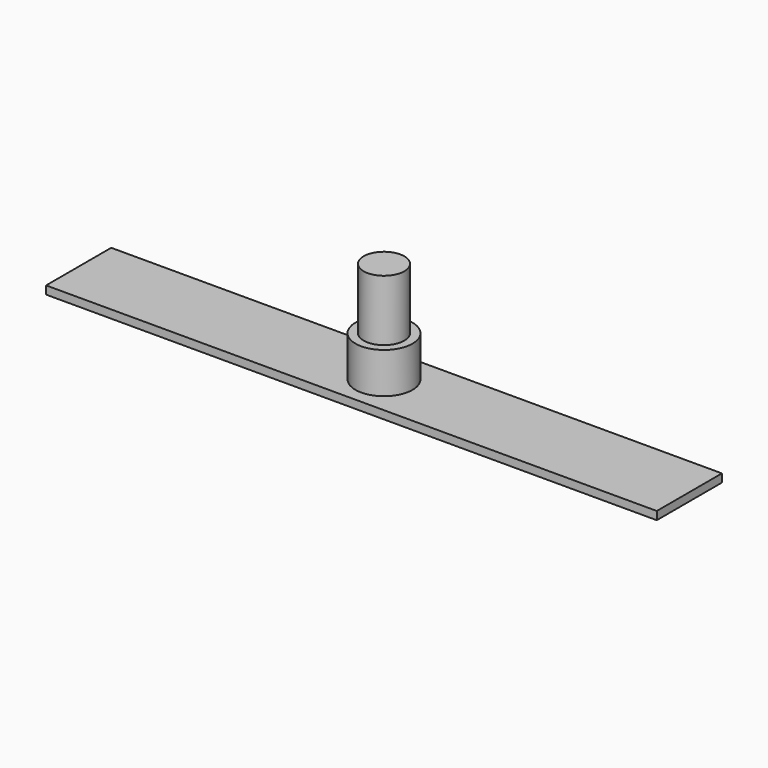
from build123d import *

# Parameters (mm, degrees)
F0_W     = 150
F0_H     = 20
F1_DEPTH = 2
F2_R     = 7
F3_DEPTH = 25
F4_R     = 7
F4_R_2   = 5
F5_DEPTH = 15


with BuildPart() as f1:
    # F0 (on Top) → F1 (new body)
    with BuildSketch(Plane.XY):
        Rectangle(F0_W, F0_H)
    extrude(amount=F1_DEPTH)

    # F2 (on face) → F3 (join)
    with BuildSketch(Plane.XY.offset(2)):
        Circle(F2_R)
    extrude(amount=F3_DEPTH)

    # F4 (on face) → F5 (cut)
    with BuildSketch(Plane.XY.offset(27)):
        Circle(F4_R)
        Circle(F4_R_2, mode=Mode.SUBTRACT)
    extrude(amount=-F5_DEPTH, mode=Mode.SUBTRACT)


solid = f1.part
